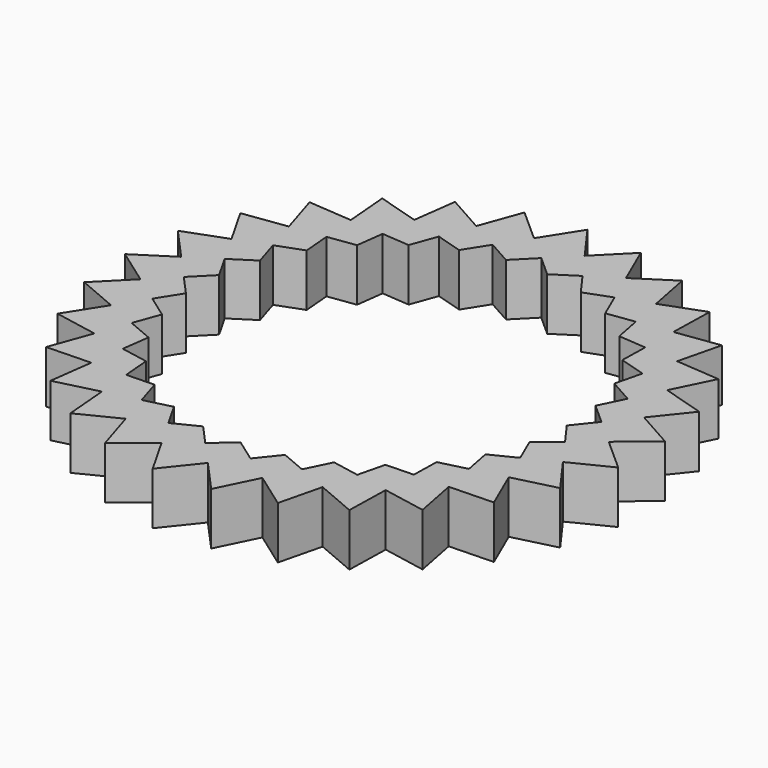
from build123d import *

# Parameters (mm, degrees)
F1_DEPTH = 6.35


with BuildPart() as f1:
    # F0 (on Top) → F1 (new body)
    with BuildSketch(Plane.XY):
        Polygon((-24.1086892498, -13.7312582458), (-25.9361392682, -18.7545309792), (-20.5932268628, -18.5928845996), (-20.0483695073, -14.4970599949), align=None)
        Polygon((-16.4632104005, -18.4679336069), (-20.5932268628, -18.5928845996), (-21.2980969645, -23.8915637428), (-16.1148480755, -22.585128334), align=None)
        Polygon((-12.1082498728, -21.5752671691), (-16.1148480755, -22.585128334), (-15.6641793179, -27.9114535394), (-10.8829569025, -25.521316569), align=None)
        Polygon((-7.1871210385, -23.6737652176), (-10.8829569025, -25.521316569), (-9.2978220559, -30.6262347898), (-5.1421907603, -27.2641564062), align=None)
        Polygon((-1.9299304123, -24.665304316), (-5.1421907603, -27.2641564062), (-2.4967089684, -31.9089673401), (0.8390185068, -27.7321545918), align=None)
        Polygon((8.6051350651, -23.1959806628), (6.7809962009, -26.9034280507), (11.1322759384, -30.0081353106), (12.4059020493, -24.816727115), align=None)
        Polygon((13.3904019635, -20.8038218521), (12.4059020493, -24.816727115), (17.3228715709, -26.9134515238), (17.4507217059, -21.5696236012), align=None)
        Polygon((17.5495485484, -17.4388994534), (17.4507217059, -21.5696236012), (22.7034689817, -22.5603246559), (21.6795650107, -17.3139484608), align=None)
        Polygon((24.8946959507, -12.2486923333), (20.8880977481, -13.2585534982), (21.6795650107, -17.3139484608), (27.0224774161, -17.1523020812), align=None)
        Polygon((26.9457785766, -6.6107009659), (23.2499427125, -8.4582523173), (24.8946959507, -12.2486923333), (30.0779448398, -10.9422569245), align=None)
        Polygon((24.5246461962, -3.2624526586), (26.9457785766, -6.6107009659), (31.727000992, -4.2205639955), (27.7369065442, -0.6636005685), align=None)
        Polygon((27.2310875892, 5.3145290539), (24.6526044809, 2.0858956603), (27.7369065442, -0.6636005685), (31.8925378399, 2.6984778152), align=None)
        Polygon((23.6278343795, 7.3367098166), (27.2310875892, 5.3145290539), (30.5668150644, 9.4913418023), (25.4519732437, 11.0441572045), align=None)
        Polygon((22.4827529172, 16.2573728388), (21.498253003, 12.2444675759), (25.4519732437, 11.0441572045), (27.811821989, 15.8404011956), align=None)
        Polygon((23.7563790281, 21.4487810344), (18.4622640521, 20.710411788), (18.3634372096, 16.5796876402), (22.4827529172, 16.2573728388), align=None)
        Polygon((13.5785002392, 24.1950549), (14.3699675018, 20.1396599374), (18.4622640521, 20.710411788), (18.5901141871, 26.0542397106), align=None)
        Polygon((12.5545962682, 29.4414310951), (8.0598208465, 26.5483641356), (9.7045740847, 22.7579241196), (13.5785002392, 24.1950549), align=None)
        Polygon((2.1642731889, 27.6603013707), (4.5854055693, 24.3120530635), (8.0598208465, 26.5483641356), (5.9320393812, 31.4519738835), align=None)
        Polygon((-0.9678930743, 31.9918573294), (-3.8324734776, 27.478873656), (-0.7481714143, 24.7293774271), (2.1642731889, 27.6603013707), align=None)
        Polygon((-7.8225679254, 31.035837083), (-9.6500179437, 26.0125643496), (-6.046764734, 23.990383587), (-3.8324734776, 27.478873656), align=None)
        Polygon((-15.0163382961, 23.3299364452), (-11.0626180553, 22.1296260737), (-9.6500179437, 26.0125643496), (-14.3114681944, 28.6286155884), align=None)
        Polygon((-20.1311801167, 24.8827518473), (-19.6805113592, 19.5564266419), (-15.5611956516, 19.2341118405), (-15.0163382961, 23.3299364452), align=None)
        Polygon((-25.0095804309, 19.9733982851), (-23.4244455844, 14.8684800642), (-19.3321490342, 15.4392319148), (-19.6805113592, 19.5564266419), align=None)
        Polygon((-28.7185605604, 14.1301108179), (-26.0730787685, 9.4852998839), (-22.1991526141, 10.9224306643), (-23.4244455844, 14.8684800642), align=None)
        Polygon((-31.0846927164, 7.6261150733), (-27.5025637676, 3.6585976232), (-24.0281484903, 5.8949086953), (-26.0730787685, 9.4852998839), align=None)
        Polygon((-31.9973391892, 0.7655306637), (-27.6460594517, -2.3391765962), (-24.7336148485, 0.5917473475), (-27.5025637676, 3.6585976232), align=None)
        Polygon((-31.413825644, -6.1308491089), (-26.4968561223, -8.2275735177), (-24.2825648659, -4.7390834487), (-27.6460594517, -2.3391765962), align=None)
        Polygon((-29.3614365256, -12.7405571911), (-24.1086892498, -13.7312582458), (-22.6960891382, -9.8483199699), (-26.4968561223, -8.2275735177), align=None)
        Polygon((3.4175016151, -24.5035211982), (0.8390185068, -27.7321545918), (4.4211474556, -31.6996720419), (6.7809962009, -26.9034280507), align=None)
        Polygon((-8.8500670839, -20.754043752), (-12.1082498728, -21.5752671691), (-10.8829569025, -25.521316569), (-7.1871210385, -23.6737652176), align=None)
        Polygon((0.682293437, -22.5519066847), (-1.9299304123, -24.665304316), (0.8390185068, -27.7321545918), (3.4175016151, -24.5035211982), align=None)
        Polygon((-4.181651512, -22.1713285593), (-7.1871210385, -23.6737652176), (-5.1421907603, -27.2641564062), (-1.9299304123, -24.665304316), align=None)
        Polygon((5.5143351032, -21.8779827183), (3.4175016151, -24.5035211982), (6.7809962009, -26.9034280507), (8.6051350651, -23.1959806628), align=None)
        Polygon((10.0885325887, -20.1810685955), (8.6051350651, -23.1959806628), (12.4059020493, -24.816727115), (13.3904019635, -20.8038218521), align=None)
        Polygon((20.8880977481, -13.2585534982), (17.6299149592, -14.0797769153), (17.5495485484, -17.4388994534), (21.6795650107, -17.3139484608), align=None)
        Polygon((-27.6460594517, -2.3391765962), (-24.2825648659, -4.7390834487), (-22.4818937488, -1.9022284093), (-24.7336148485, 0.5917473475), align=None)
        Polygon((-26.4968561223, -8.2275735177), (-22.6960891382, -9.8483199699), (-21.5473566878, -6.6906979621), (-24.2825648659, -4.7390834487), align=None)
        Polygon((-22.6960891382, -9.8483199699), (-24.1086892498, -13.7312582458), (-20.0483695073, -14.4970599949), (-19.6052891763, -11.1663179144), align=None)
        Polygon((-20.0483695073, -14.4970599949), (-20.5932268628, -18.5928845996), (-16.4632104005, -18.4679336069), (-16.7465001326, -15.1198132515), align=None)
        Polygon((-13.1046633551, -18.3663229254), (-16.4632104005, -18.4679336069), (-16.1148480755, -22.585128334), (-12.1082498728, -21.5752671691), align=None)
        Polygon((14.191001503, -17.5405101349), (13.3904019635, -20.8038218521), (17.4507217059, -21.5696236012), (17.5495485484, -17.4388994534), align=None)
        Polygon((23.2499427125, -8.4582523173), (20.2444731861, -9.9606889756), (20.8880977481, -13.2585534982), (24.8946959507, -12.2486923333), align=None)
        Polygon((21.912422347, -5.3758502899), (23.2499427125, -8.4582523173), (26.9457785766, -6.6107009659), (24.5246461962, -3.2624526586), align=None)
        Polygon((24.6526044809, 2.0858956603), (22.5557709928, -0.5396428196), (24.5246461962, -3.2624526586), (27.7369065442, -0.6636005685), align=None)
        Polygon((22.1444368559, 4.3217977493), (24.6526044809, 2.0858956603), (27.2310875892, 5.3145290539), (23.6278343795, 7.3367098166), align=None)
        Polygon((21.498253003, 12.2444675759), (20.6976534634, 8.9811558587), (23.6278343795, 7.3367098166), (25.4519732437, 11.0441572045), align=None)
        Polygon((18.3634372096, 16.5796876402), (18.2830707988, 13.220565102), (21.498253003, 12.2444675759), (22.4827529172, 16.2573728388), align=None)
        Polygon((18.4622640521, 20.710411788), (14.3699675018, 20.1396599374), (15.0135920638, 16.8417954148), (18.3634372096, 16.5796876402), align=None)
        Polygon((9.7045740847, 22.7579241196), (11.0420944503, 19.6755220922), (14.3699675018, 20.1396599374), (13.5785002392, 24.1950549), align=None)
        Polygon((8.0598208465, 26.5483641356), (4.5854055693, 24.3120530635), (6.5542807727, 21.5892432244), (9.7045740847, 22.7579241196), align=None)
        Polygon((-0.7481714143, 24.7293774271), (1.7599962107, 22.4934753382), (4.5854055693, 24.3120530635), (2.1642731889, 27.6603013707), align=None)
        Polygon((-3.8324734776, 27.478873656), (-6.046764734, 23.990383587), (-3.116583818, 22.3459375448), (-0.7481714143, 24.7293774271), align=None)
        Polygon((-9.6500179437, 26.0125643496), (-11.0626180553, 22.1296260737), (-7.8474358512, 21.1535285476), (-6.046764734, 23.990383587), align=None)
        Polygon((-15.5611956516, 19.2341118405), (-12.2113505057, 18.9720040659), (-11.0626180553, 22.1296260737), (-15.0163382961, 23.3299364452), align=None)
        Polygon((-19.6805113592, 19.5564266419), (-19.3321490342, 15.4392319148), (-16.0042759826, 15.90336976), (-15.5611956516, 19.2341118405), align=None)
        Polygon((-23.4244455844, 14.8684800642), (-22.1991526141, 10.9224306643), (-19.048859302, 12.0911115594), (-19.3321490342, 15.4392319148), align=None)
        Polygon((-26.0730787685, 9.4852998839), (-24.0281484903, 5.8949086953), (-21.2027391318, 7.7134864207), (-22.1991526141, 10.9224306643), align=None)
        Polygon((-27.5025637676, 3.6585976232), (-24.7336148485, 0.5917473475), (-22.3652024449, 2.9751872298), (-24.0281484903, 5.8949086953), align=None)
    extrude(amount=F1_DEPTH)


solid = f1.part
